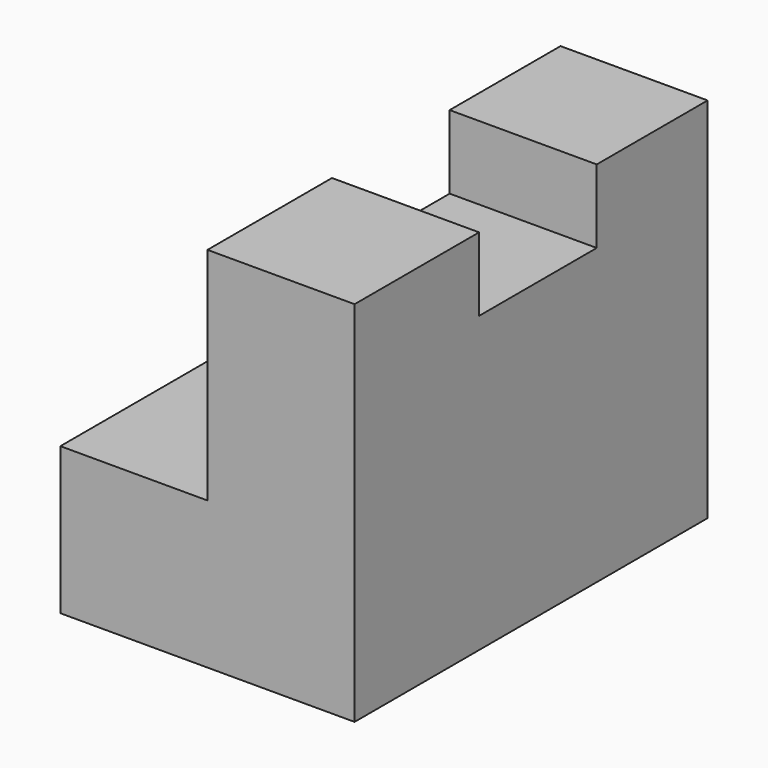
from build123d import *

# Parameters (mm, degrees)
F1_DEPTH = 38.1
F2_W     = 12.7
F2_H     = 6.35
F3_DEPTH = 12.7


with BuildPart() as f1:
    # F0 (on Front) → F1 (new body)
    with BuildSketch(Plane.XZ):
        Polygon((0, 12.7), (0, 0), (25.4, 0), (25.4, 31.75), (12.7, 31.75), (12.7, 12.7), align=None)
    extrude(amount=F1_DEPTH)

    # F2 (on face) → F3 (cut)
    with BuildSketch(Plane(origin=(12.7, 0, 0), x_dir=(0, -1, 0), z_dir=(-1, 0, 0))):
        with Locations((18.315243, 28.575)):
            Rectangle(F2_W, F2_H)
    extrude(amount=-F3_DEPTH, mode=Mode.SUBTRACT)


solid = f1.part
